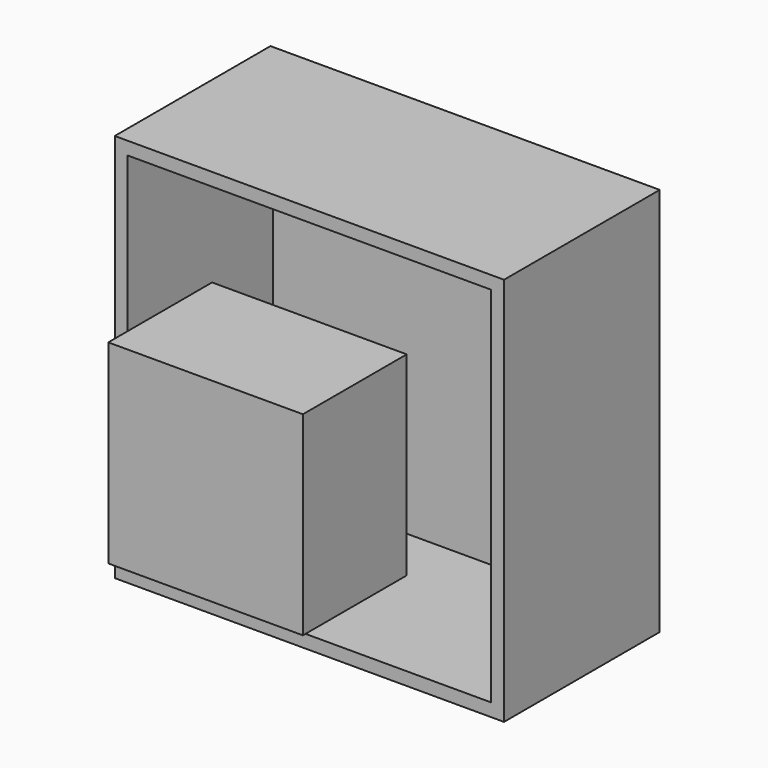
from build123d import *

# Parameters (mm, degrees)
F0_W     = 76.2
F0_H     = 38.1
F1_DEPTH = 76.2
F3_T     = -2.54
F2_W     = 38.1
F2_H     = 38.1
F4_DEPTH = 25.4


with BuildPart() as f1:
    # F0 (on Top) → F1 (new body)
    with BuildSketch(Plane.XY):
        with Locations((-0.554262, -3.197359)):
            Rectangle(F0_W, F0_H)
    extrude(amount=F1_DEPTH)

    # F3
    f3_openings = [f1.faces().sort_by_distance(p)[0] for p in [
        (-0.554262, -22.247359, 38.1),
    ]]
    offset(amount=F3_T, openings=f3_openings)


with BuildPart() as f4:
    # F2 (on face) → F4 (new body)
    with BuildSketch(Plane.XZ.offset(22.247359)):
        with Locations((-0.554262, 38.1)):
            Rectangle(F2_W, F2_H)
    extrude(amount=F4_DEPTH)


solid = Compound([f1.part, f4.part])
